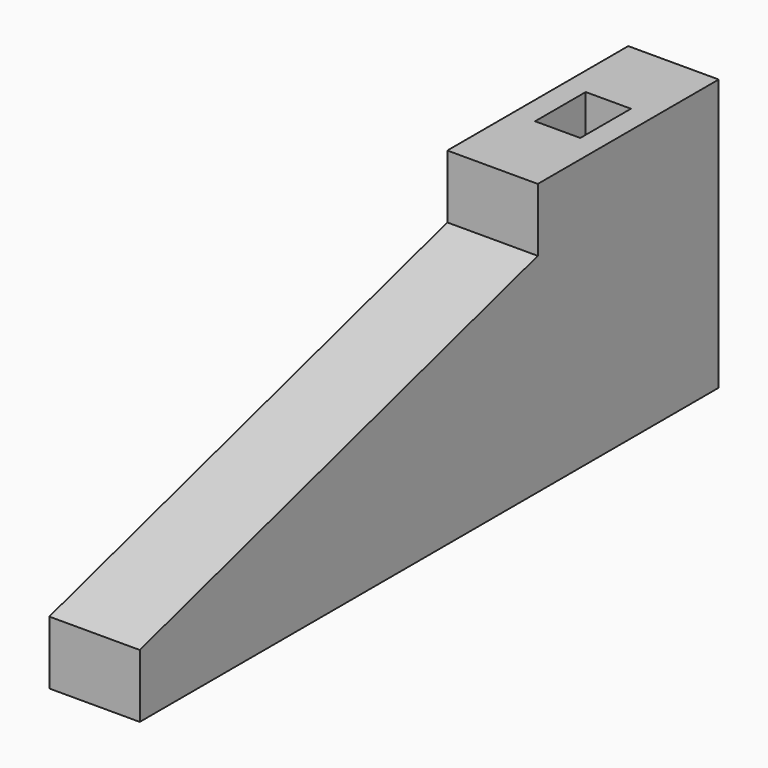
from build123d import *

# Parameters (mm, degrees)
F1_DEPTH = 1.27
F3_W     = 1.27
F3_H     = 1.778
F4_DEPTH = 1.27


with BuildPart() as f1:
    # F0 (on Right) → F1 (new body, symmetric)
    with BuildSketch(Plane.YZ):
        Polygon((-13.97, 1.778), (-13.97, 0), (6.35, 0), (6.35, 7.62), (0, 7.62), (0, 5.842), align=None)
    extrude(amount=F1_DEPTH, both=True)

    # F3 (on offset) → F4 (cut)
    with BuildSketch(Plane.XY.offset(7.62)):
        with Locations((0, 3.175)):
            Rectangle(F3_W, F3_H)
    extrude(amount=-F4_DEPTH, mode=Mode.SUBTRACT)


solid = f1.part
